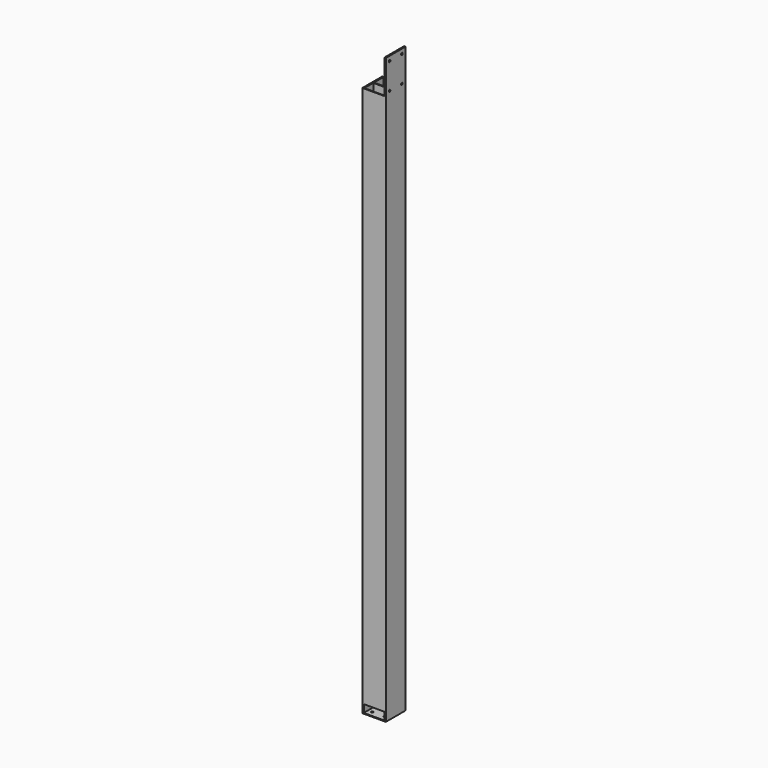
from build123d import *

# Parameters (mm, degrees)
F1_DEPTH  = 3785
F2_W      = 134
F2_H      = 220
F3_DEPTH  = 100
F4_W      = 160
F4_H      = 220
F5_DEPTH  = 25
F7_D      = 13.2
F8_W      = 134
F8_H      = 5
F9_DEPTH  = 77
F10_W     = 134
F10_H     = 5
F11_DEPTH = 77
F13_D     = 13.2
F14_W     = 134
F14_H     = 3510
F15_DEPTH = 5


with BuildPart() as f1:
    # F0 (on Top) → F1 (new body)
    with BuildSketch(Plane.XY):
        Polygon((-170.5788427117, 83), (-170.5788427117, -77), (-161.5788427117, -77), (-161.5788427117, 0), (-27.5788427117, 0), (-27.5788427117, -77), (-18.5788427117, -77), (-18.5788427117, 83), (-27.5788427117, 83), (-27.5788427117, 6), (-161.5788427117, 6), (-161.5788427117, 83), align=None)
    extrude(amount=F1_DEPTH)

    # F2 (on face) → F3 (cut)
    with BuildSketch(Plane.XZ):
        with Locations((-94.5788427117, 3675)):
            Rectangle(F2_W, F2_H)
    extrude(amount=-F3_DEPTH, mode=Mode.SUBTRACT)

    # F4 (on face) → F5 (cut)
    with BuildSketch(Plane(origin=(-170.5788427117, 0, 0), x_dir=(0, -1, 0), z_dir=(-1, 0, 0))):
        with Locations((-3, 3675)):
            Rectangle(F4_W, F4_H)
    extrude(amount=-F5_DEPTH, mode=Mode.SUBTRACT)

    # F7 (through all)
    with Locations(Plane.YZ.offset(-18.5788427117)):
        with Locations((-47, 3755), (53, 3755), (-47, 3585), (53, 3585)):
            Hole(F7_D / 2)

    # F8 (on face) → F9 (join)
    with BuildSketch(Plane(origin=(0, 6, 0), x_dir=(-1, 0, 0), z_dir=(0, 1, 0))):
        with Locations((94.5788427117, 2.5)):
            Rectangle(F8_W, F8_H)
    extrude(amount=F9_DEPTH)

    # F10 (on face) → F11 (join)
    with BuildSketch(Plane.XZ):
        with Locations((-94.5788427117, 2.5)):
            Rectangle(F10_W, F10_H)
    extrude(amount=F11_DEPTH)

    # F13 (through all)
    with Locations(Plane(origin=(0, 0, 0), x_dir=(1, 0, 0), z_dir=(0, 0, -1))):
        with Locations((-54.5788427117, -48), (-54.5788427117, 42), (-134.5788427117, 42), (-134.5788427117, -48)):
            Hole(F13_D / 2)

    # F14 (on face) → F15 (join)
    with BuildSketch(Plane.XZ.offset(77)):
        with Locations((-94.5788427117, 1810)):
            Rectangle(F14_W, F14_H)
    extrude(amount=-F15_DEPTH)


solid = f1.part
